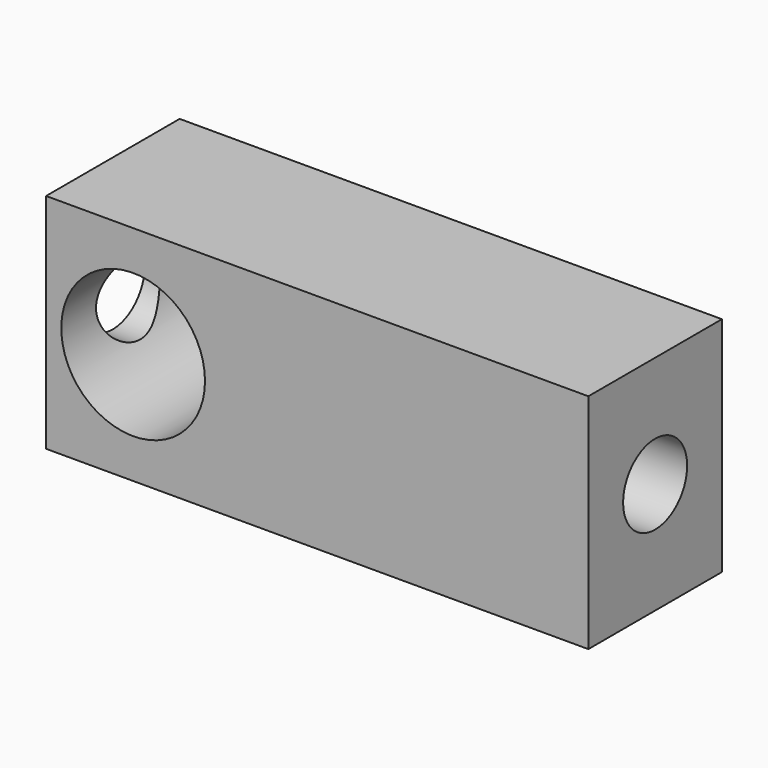
from build123d import *

# Parameters (mm, degrees)
F0_W     = 97.442076
F0_H     = 40
F1_DEPTH = 15
F2_R     = 12.912954
F3_DEPTH = 100
F4_R     = 7.192075
F5_DEPTH = 1000


with BuildPart() as f1:
    # F0 (on Front) → F1 (new body, symmetric)
    with BuildSketch(Plane.XZ):
        Rectangle(F0_W, F0_H)
    extrude(amount=F1_DEPTH, both=True)

    # F2 (on face) → F3 (cut)
    with BuildSketch(Plane.XZ.offset(15)):
        with Locations((-33.078179, 0)):
            Circle(F2_R)
    extrude(amount=-F3_DEPTH, mode=Mode.SUBTRACT)

    # F4 (on face) → F5 (cut)
    with BuildSketch(Plane(origin=(-48.721038, 0, 0), x_dir=(0, -1, 0), z_dir=(-1, 0, 0))):
        Circle(F4_R)
    extrude(amount=-F5_DEPTH, mode=Mode.SUBTRACT)


solid = f1.part
